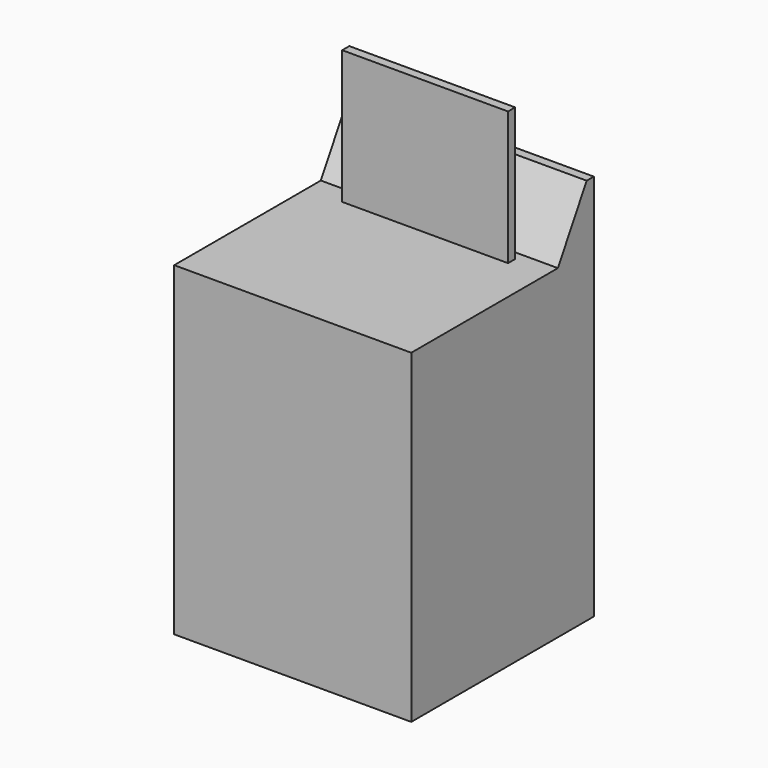
from build123d import *

# Parameters (mm, degrees)
F0_W     = 676.275
F0_H     = 650.875
F1_DEPTH = 927.1
F3_DEPTH = 676.275
F4_W     = 473.075
F4_H     = 25.4
F5_DEPTH = 381


with BuildPart() as f1:
    # F0 (on Top) → F1 (new body)
    with BuildSketch(Plane.XY):
        with Locations((2.333625, 72.26744)):
            Rectangle(F0_W, F0_H)
    extrude(amount=F1_DEPTH)

    # F2 (on face) → F3 (join, through all)
    with BuildSketch(Plane(origin=(-335.803875, 0, 0), x_dir=(0, -1, 0), z_dir=(-1, 0, 0))):
        Polygon((-397.70494, 1104.9), (-397.70494, 927.1), (-269.652062, 927.1), (-372.30494, 1104.9), align=None)
    extrude(amount=-F3_DEPTH)

    # F4 (on face) → F5 (join)
    with BuildSketch(Plane.XY.offset(927.1)):
        with Locations((2.333625, 231.552062)):
            Rectangle(F4_W, F4_H)
    extrude(amount=F5_DEPTH)


solid = f1.part
